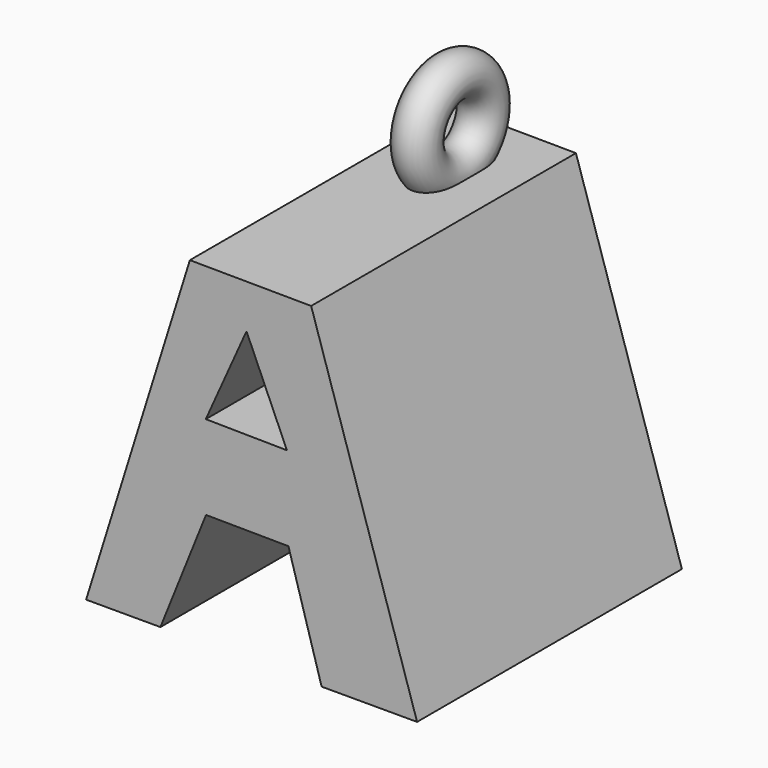
from build123d import *

# Parameters (mm, degrees)
F1_DEPTH = 25.4
F3_DEPTH = 25.4
F5_R     = 1.5875


with BuildPart() as f1:
    # F0 (on Front) → F1 (new body)
    with BuildSketch(Plane.XZ):
        Polygon((25.399335, 25.4), (0, 25.583795), (0, 0), (25.399335, 0), align=None)
    extrude(amount=F1_DEPTH)

    # F2 (on face) → F3 (cut)
    with BuildSketch(Plane.XZ.offset(25.4)):
        Polygon((0, 0), (7.961136, 25.526187), (0, 25.583795), align=None)
        Polygon((9.200284, 8.716307), (5.701287, 0), (18.071296, 0), (15.525086, 8.660929), align=None)
        Polygon((25.399335, 25.4), (17.26905, 25.458833), (25.399335, 0), align=None)
        Polygon((9.184068, 15.181166), (15.411005, 15.101977), (12.307478, 22.137856), align=None)
    extrude(amount=-F3_DEPTH, mode=Mode.SUBTRACT)

    # F5 (on offset) → F6 (revolve)
    with BuildSketch(Plane.XZ.offset(6.35)):
        with Locations((12.7, 25.4)):
            Circle(F5_R)
    revolve(axis=Axis((14.252264, -6.35, 28.575), (1, 0, 0)))


solid = f1.part
